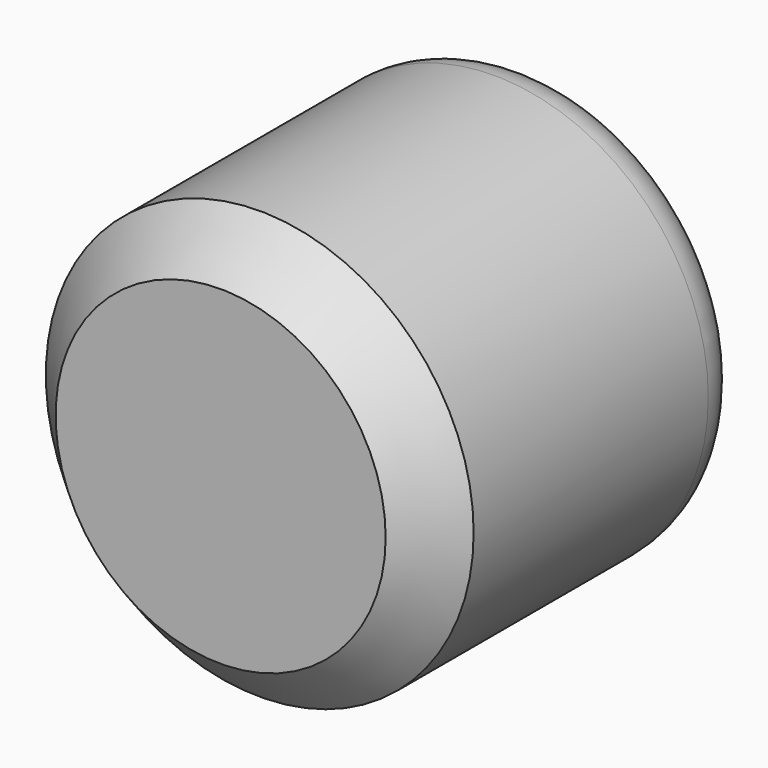
from build123d import *

# Parameters (mm, degrees)
F0_R     = 21.881229
F1_DEPTH = 40
F2_SIZE  = 5
F3_R     = 5


with BuildPart() as f1:
    # F0 (on Front) → F1 (new body)
    with BuildSketch(Plane.XZ):
        Circle(F0_R)
    extrude(amount=F1_DEPTH)

    # F2
    f2_edges = [f1.edges().sort_by_distance(p)[0] for p in [
        (-21.881229, -40, 0),
    ]]
    chamfer(f2_edges, length=F2_SIZE)

    # F3
    f3_edges = [f1.edges().sort_by_distance(p)[0] for p in [
        (-21.881229, 0, 0),
    ]]
    fillet(f3_edges, radius=F3_R)


solid = f1.part
